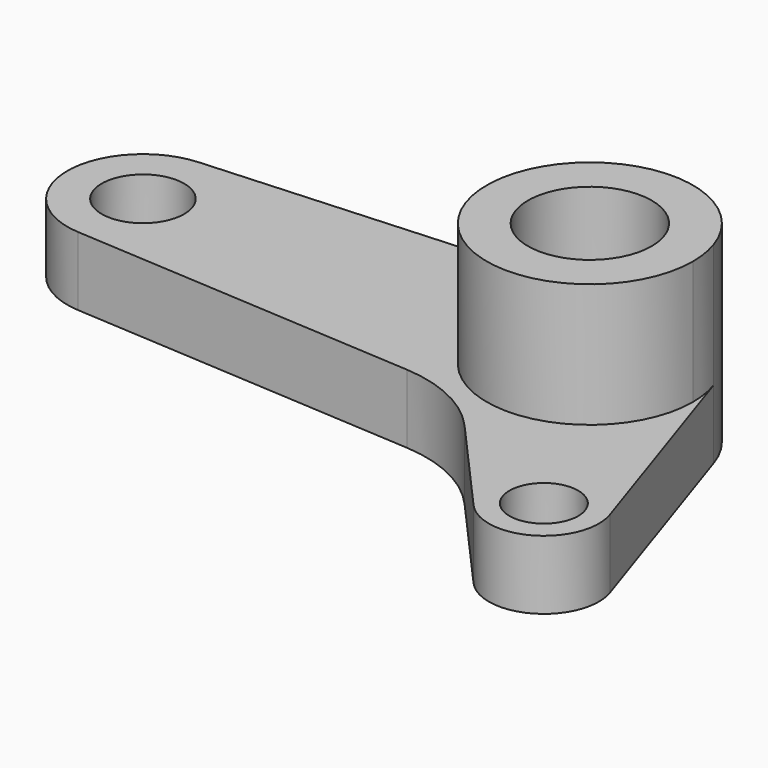
from build123d import *

# Parameters (mm, degrees)
F0_R     = 5
F0_R_2   = 6
F0_R_3   = 9
F1_DEPTH = 10
F2_DEPTH = 28


with BuildPart() as f1:
    # F0 (on Top) → F1 (new body)
    with BuildSketch(Plane.XY):
        with BuildLine():
            ThreePointArc((14.236793, 4.723741), (14.807969, 2.392499), (15, 0))
            ThreePointArc((15, 0), (-10.275063, -10.928087), (-0.923077, 14.971571))
            Line((-0.923077, 14.971571), (-65.676923, 10.979152))
            ThreePointArc((-65.676923, 10.979152), (-76, 0), (-65.676923, -10.979152))
            Line((-65.676923, -10.979152), (-15.331547, -14.083212))
            ThreePointArc((-15.331547, -14.083212), (-7.813115, -16.060549), (-1.616615, -20.755234))
            Line((-1.616615, -20.755234), (11.362663, -35.351424))
            ThreePointArc((11.362663, -35.351424), (21.340944, -36.963599), (24.9339, -27.516067))
            Line((24.9339, -27.516067), (14.236793, 4.723741))
        make_face()
        with Locations((17.340944, -30.035395)):
            Circle(F0_R, mode=Mode.SUBTRACT)
        with Locations((-65, 0)):
            Circle(F0_R_2, mode=Mode.SUBTRACT)
        with BuildLine():
            ThreePointArc((-0.923077, 14.971571), (-10.275063, -10.928087), (15, 0))
            ThreePointArc((15, 0), (14.807969, 2.392499), (14.236793, 4.723741))
            ThreePointArc((14.236793, 4.723741), (8.400492, 12.427057), (-0.923077, 14.971571))
        make_face()
        Circle(F0_R_3, mode=Mode.SUBTRACT)
    extrude(amount=F1_DEPTH)

    # F0 (on Top) → F2 (join)
    with BuildSketch(Plane.XY):
        with BuildLine():
            ThreePointArc((-0.923077, 14.971571), (-10.275063, -10.928087), (15, 0))
            ThreePointArc((15, 0), (14.807969, 2.392499), (14.236793, 4.723741))
            ThreePointArc((14.236793, 4.723741), (8.400492, 12.427057), (-0.923077, 14.971571))
        make_face()
        Circle(F0_R_3, mode=Mode.SUBTRACT)
    extrude(amount=F2_DEPTH)


solid = f1.part
